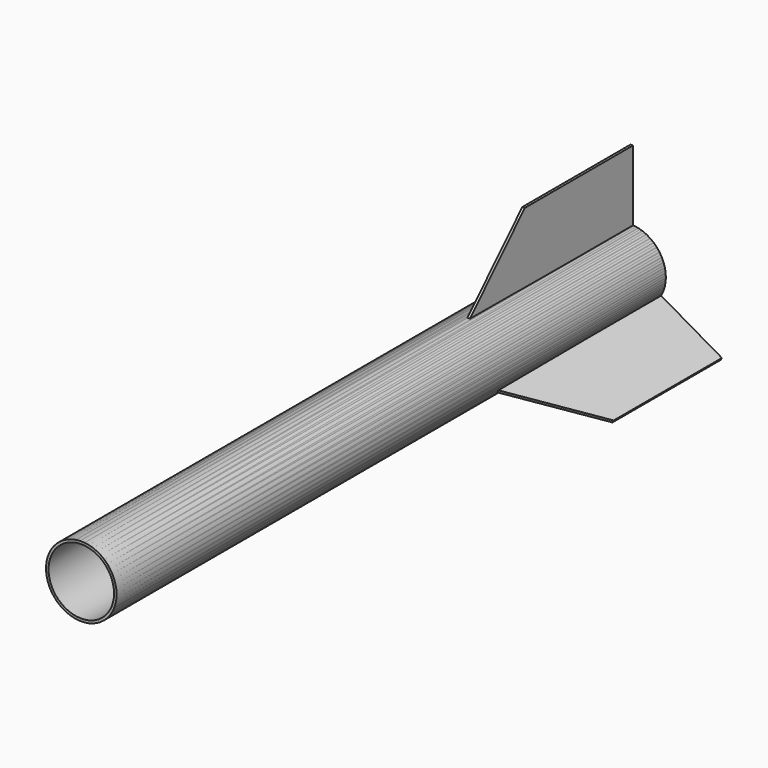
from build123d import *

# Parameters (mm, degrees)
F0_R     = 11.3
F0_R_2   = 10.5
F1_DEPTH = 220
F3_DEPTH = 0.8
F4_COUNT = 3


with BuildPart() as f1:
    # F0 (on Front) → F1 (new body)
    with BuildSketch(Plane.XZ):
        Circle(F0_R)
        Circle(F0_R_2, mode=Mode.SUBTRACT)
    extrude(amount=F1_DEPTH)

    # F2 (on Right) → F3 (join)
    with BuildSketch(Plane.YZ):
        Polygon((-65.369092, 11.471458), (0, 11.161419), (0, 33.794291), (-43.356296, 33.794291), align=None)
    extrude(amount=F3_DEPTH)


with BuildPart() as f4_1:
    # F4: instance of F1
    add(f1.part.rotate(Axis((0, 0, 0), (0, 1, 0)), 1 * 360 / F4_COUNT))


with BuildPart() as f4_2:
    # F4: instance of F1
    add(f1.part.rotate(Axis((0, 0, 0), (0, 1, 0)), 2 * 360 / F4_COUNT))


solid = Compound([f1.part, f4_1.part, f4_2.part])
